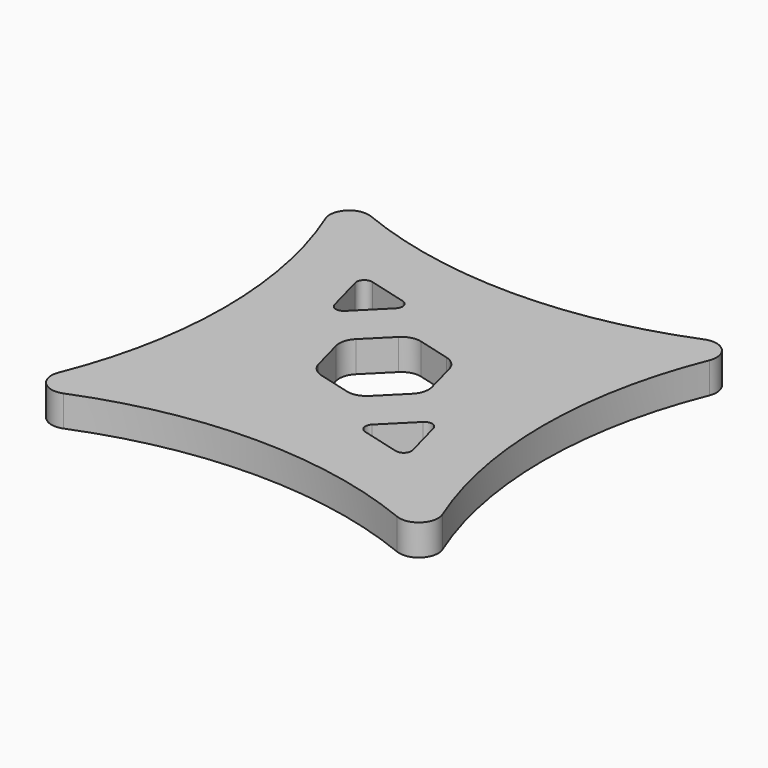
from build123d import *

# Parameters (mm, degrees)
F1_DEPTH = 8
F2_R     = 2


with BuildPart() as f1:
    # F0 (on Top) → F1 (new body)
    with BuildSketch(Plane.XY):
        with BuildLine():
            ThreePointArc((43.125, 49.635124), (0, 41.242977), (-43.125, 49.635124))
            ThreePointArc((-43.125, 49.635124), (-48.535534, 48.535534), (-49.635124, 43.125))
            ThreePointArc((-49.635124, 43.125), (-41.242977, 0), (-49.635124, -43.125))
            ThreePointArc((-49.635124, -43.125), (-48.535534, -48.535534), (-43.125, -49.635124))
            ThreePointArc((-43.125, -49.635124), (0, -41.242977), (43.125, -49.635124))
            ThreePointArc((43.125, -49.635124), (48.535534, -48.535534), (49.635124, -43.125))
            ThreePointArc((49.635124, -43.125), (41.242977, 0), (49.635124, 43.125))
            ThreePointArc((49.635124, 43.125), (48.535534, 48.535534), (43.125, 49.635124))
        make_face()
        Polygon((23.801394, -11.553945), (28.284271, -28.284271), (11.553945, -23.801394), align=None, mode=Mode.SUBTRACT)
        Polygon((-28.284271, 28.284271), (-11.553945, 23.801394), (-23.801394, 11.553945), align=None, mode=Mode.SUBTRACT)
        with BuildLine():
            ThreePointArc((13.194792, -0.947343), (13.194792, -3.535534), (11.900697, -5.776973))
            Line((11.900697, -5.776973), (5.776973, -11.900697))
            ThreePointArc((5.776973, -11.900697), (3.535534, -13.194792), (0.947343, -13.194792))
            Line((0.947343, -13.194792), (-7.41782, -10.953353))
            ThreePointArc((-7.41782, -10.953353), (-9.659258, -9.659258), (-10.953353, -7.41782))
            Line((-10.953353, -7.41782), (-13.194792, 0.947343))
            ThreePointArc((-13.194792, 0.947343), (-13.194792, 3.535534), (-11.900697, 5.776973))
            Line((-11.900697, 5.776973), (-5.776973, 11.900697))
            ThreePointArc((-5.776973, 11.900697), (-3.535534, 13.194792), (-0.947343, 13.194792))
            Line((-0.947343, 13.194792), (7.41782, 10.953353))
            ThreePointArc((7.41782, 10.953353), (9.659258, 9.659258), (10.953353, 7.41782))
            Line((10.953353, 7.41782), (13.194792, -0.947343))
        make_face(mode=Mode.SUBTRACT)
    extrude(amount=F1_DEPTH)

    # F2
    f2_edges = [f1.edges().sort_by_distance(p)[0] for p in [
        (-28.284271, 28.284271, 4),
        (-11.553945, 23.801394, 4),
        (-23.801394, 11.553945, 4),
        (23.801394, -11.553945, 4),
        (11.553945, -23.801394, 4),
        (28.284271, -28.284271, 4),
    ]]
    fillet(f2_edges, radius=F2_R)


solid = f1.part
